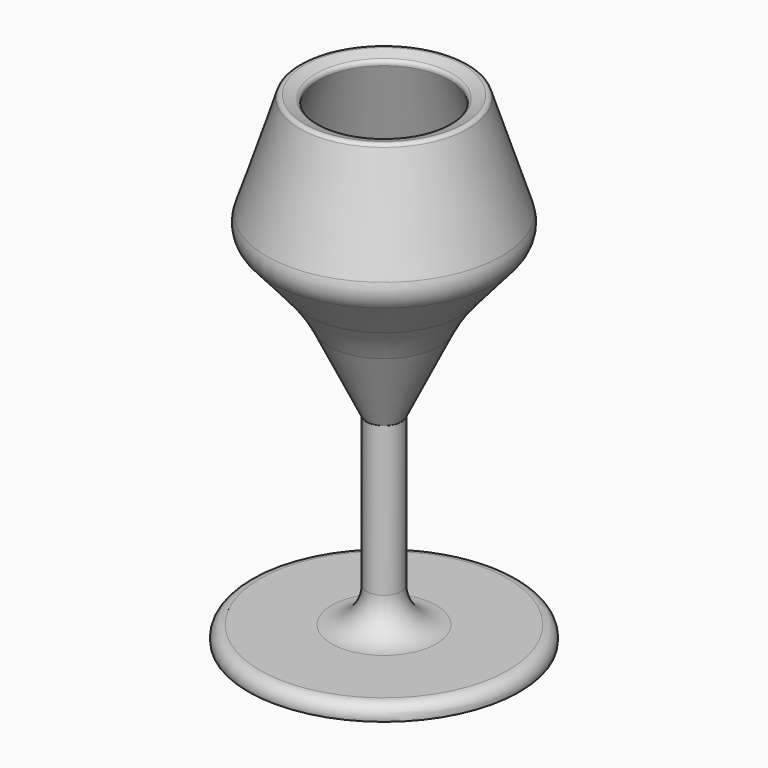
from build123d import *

# Parameters (mm, degrees)
F2_R = 1


with BuildPart() as f1:
    # F0 (on Front) → F1 (revolve)
    with BuildSketch(Plane.XZ):
        with BuildLine():
            Line((25.2422150224, 39.0042327344), (16.5958628058, 65.6083971262))
            Line((16.5958628058, 65.6083971262), (11.8406923986, 64.0629669602))
            Line((11.8406923986, 64.0629669602), (20.4870446152, 37.4588025685))
            ThreePointArc((20.4870446152, 37.4588025685), (20.5360695106, 36.6072720351), (20.1605171937, 35.8414599518))
            Line((20.1605171937, 35.8414599518), (11.5628077276, 25.8922766963))
            ThreePointArc((11.5628077276, 25.8922766963), (8.0065972367, 21.1850873232), (5.0973438607, 16.0527867041))
            Line((5.0973438607, 16.0527867041), (-0.331872701, 4.8143862549))
            ThreePointArc((-0.331872701, 4.8143862549), (-2.0064188585, 2.944053704), (-4.4189468026, 2.2498220399))
            Line((-4.4189468026, 2.2498220399), (-4.4189468026, -56.3112609088))
            Line((-4.4189468026, -56.3112609088), (0, -56.3297905028))
            Line((0, -56.3297905028), (29.8049554543, -56.3297905028))
            ThreePointArc((29.8049554543, -56.3297905028), (29.3010529784, -53.6918681662), (26.8954113126, -52.4979501897))
            Line((26.8954113126, -52.4979501897), (8.7840042943, -52.4979501897))
            ThreePointArc((8.7840042943, -52.4979501897), (2.5727752918, -49.9251748979), (0, -43.7139458954))
            Line((0, -43.7139458954), (0, -5.9923469089))
            ThreePointArc((0, -5.9923469089), (0.0210469434, -5.9492943457), (0.0419597916, -5.9061764862))
            Line((0.0419597916, -5.9061764862), (9.5995087177, 13.877812773))
            ThreePointArc((9.5995087177, 13.877812773), (12.1852194937, 18.4393422452), (15.3459382761, 22.6230377554))
            Line((15.3459382761, 22.6230377554), (23.9436477423, 32.5722210109))
            ThreePointArc((23.9436477423, 32.5722210109), (25.4371821858, 35.617779971), (25.2422150224, 39.0042327344))
        make_face()
    revolve(axis=Axis((-4.4189468026, 0, 20.968683064), (0, 0, 1)))

    # F2
    f2_edges = [f1.edges().sort_by_distance(p)[0] for p in [
        (-25.433756, 0, 65.608397),
        (-20.678586, 0, 64.062967),
    ]]
    fillet(f2_edges, radius=F2_R)


solid = f1.part
